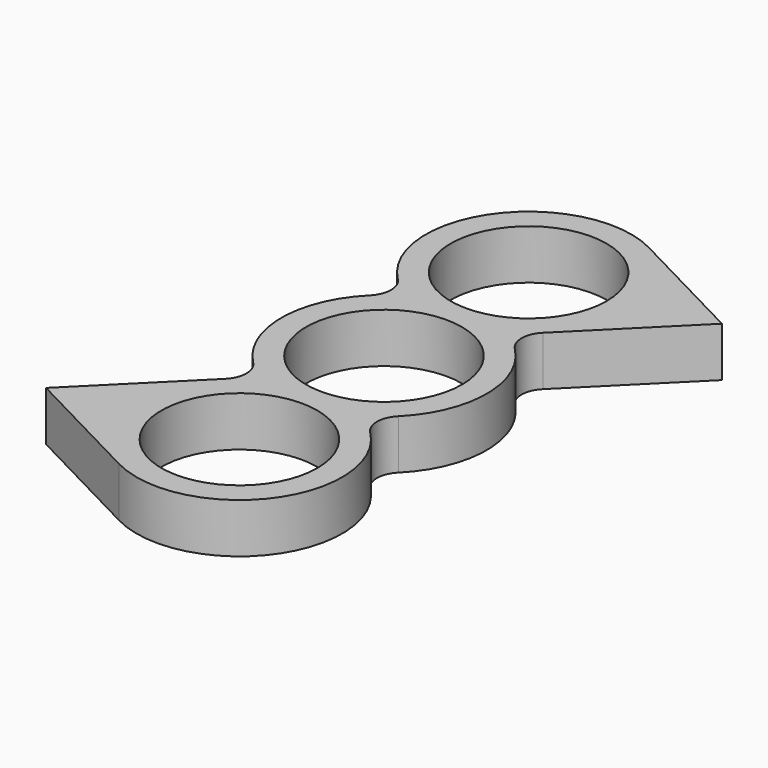
from build123d import *

# Parameters (mm, degrees)
F1_R     = 10.99185
F2_DEPTH = 7


with BuildPart() as f2:
    # F1 (on Top) → F2 (new body)
    with BuildSketch(Plane.XY):
        with BuildLine():
            Line((24.268844, 29.214578), (6.676286, 38.346084))
            ThreePointArc((6.676286, 38.346084), (-11.6986, 34.036856), (-10.2314, 15.220554))
            ThreePointArc((-10.2314, 15.220554), (-9.202438, 12.74185), (-10.2314, 10.263146))
            ThreePointArc((-10.2314, 10.263146), (-14.49185, 0), (-10.2314, -10.263146))
            ThreePointArc((-10.2314, -10.263146), (-9.202438, -12.74185), (-10.2314, -15.220554))
            Line((-10.2314, -15.220554), (-24.268844, -29.214578))
            Line((-24.268844, -29.214578), (-6.676286, -38.346084))
            ThreePointArc((-6.676286, -38.346084), (11.6986, -34.036856), (10.2314, -15.220554))
            ThreePointArc((10.2314, -15.220554), (9.202438, -12.74185), (10.2314, -10.263146))
            ThreePointArc((10.2314, -10.263146), (14.49185, 0), (10.2314, 10.263146))
            ThreePointArc((10.2314, 10.263146), (9.202438, 12.74185), (10.2314, 15.220554))
            Line((10.2314, 15.220554), (24.268844, 29.214578))
        make_face()
        with Locations((0, -25.4837)):
            Circle(F1_R, mode=Mode.SUBTRACT)
        Circle(F1_R, mode=Mode.SUBTRACT)
        with Locations((0, 25.4837)):
            Circle(F1_R, mode=Mode.SUBTRACT)
    extrude(amount=F2_DEPTH)


solid = f2.part
